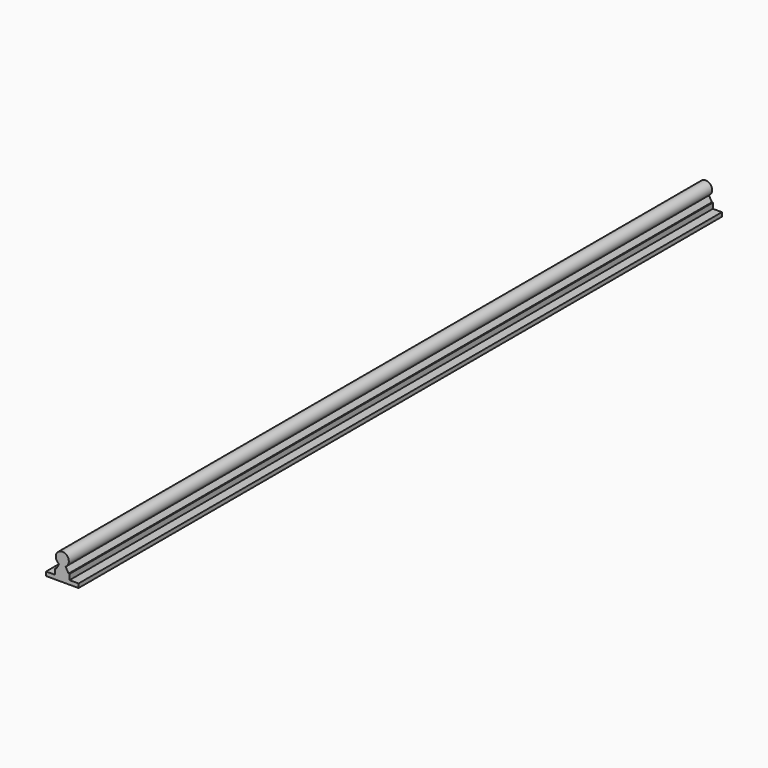
from build123d import *

# Parameters (mm, degrees)
F1_DEPTH = 495


with BuildPart() as f1:
    # F0 (on Front) → F1 (new body, symmetric)
    with BuildSketch(Plane.XZ):
        with BuildLine():
            Line((-20, -2.5), (20, -2.5))
            Line((20, -2.5), (20, 2.5))
            Line((20, 2.5), (8.9, 2.5))
            Line((8.9, 2.5), (8.9, 9.2))
            Line((8.9, 9.2), (7.68, 9.2))
            Line((7.68, 9.2), (4.000485, 15.572077))
            ThreePointArc((4.000485, 15.572077), (0, 30.5), (-4.000485, 15.572077))
            Line((-4.000485, 15.572077), (-7.68, 9.2))
            Line((-7.68, 9.2), (-8.9, 9.2))
            Line((-8.9, 9.2), (-8.9, 2.5))
            Line((-8.9, 2.5), (-20, 2.5))
            Line((-20, 2.5), (-20, -2.5))
        make_face()
    extrude(amount=F1_DEPTH, both=True)


solid = f1.part
